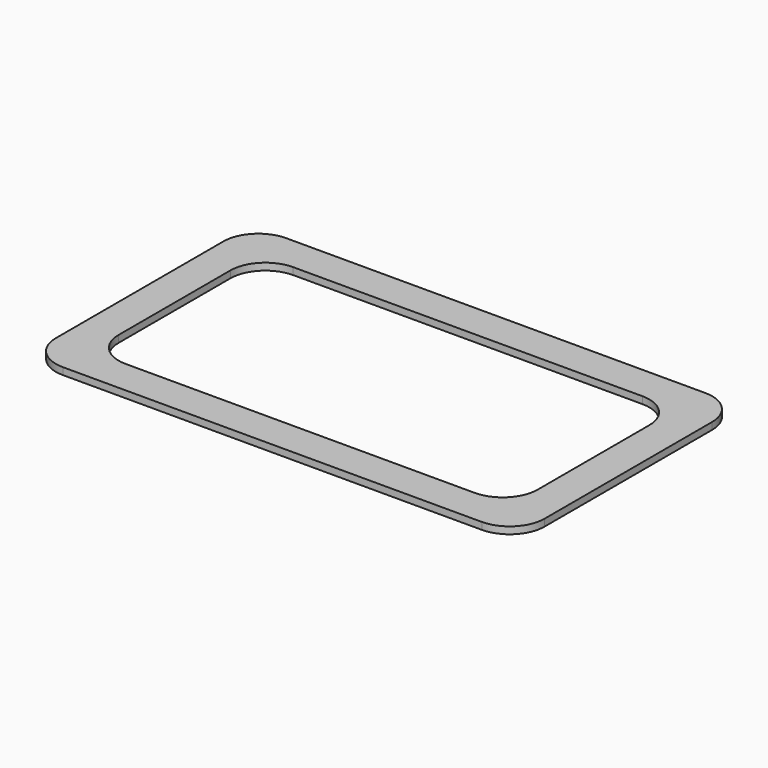
from build123d import *

# Parameters (mm, degrees)
F2_DEPTH = 0.2
F3_DEPTH = 1


with BuildPart() as f2:
    # F0 (on Top) → F2 (new body)
    with BuildSketch(Plane.XY):
        with BuildLine():
            ThreePointArc((7, 3), (6.707107, 3.707107), (6, 4))
            Line((6, 4), (-6, 4))
            ThreePointArc((-6, 4), (-6.707107, 3.707107), (-7, 3))
            Line((-7, 3), (-7, -3))
            ThreePointArc((-7, -3), (-6.707107, -3.707107), (-6, -4))
            Line((-6, -4), (6, -4))
            ThreePointArc((6, -4), (6.707107, -3.707107), (7, -3))
            Line((7, -3), (7, 3))
        make_face()
    extrude(amount=F2_DEPTH)

    # F1 (on face) → F3 (cut)
    with BuildSketch(Plane.XY):
        with BuildLine():
            Line((5, 3), (-5, 3))
            ThreePointArc((-5, 3), (-5.707107, 2.707107), (-6, 2))
            Line((-6, 2), (-6, -2))
            ThreePointArc((-6, -2), (-5.707107, -2.707107), (-5, -3))
            Line((-5, -3), (5, -3))
            ThreePointArc((5, -3), (5.707107, -2.707107), (6, -2))
            Line((6, -2), (6, 2))
            ThreePointArc((6, 2), (5.707107, 2.707107), (5, 3))
        make_face()
    extrude(amount=F3_DEPTH, mode=Mode.SUBTRACT)


solid = f2.part
